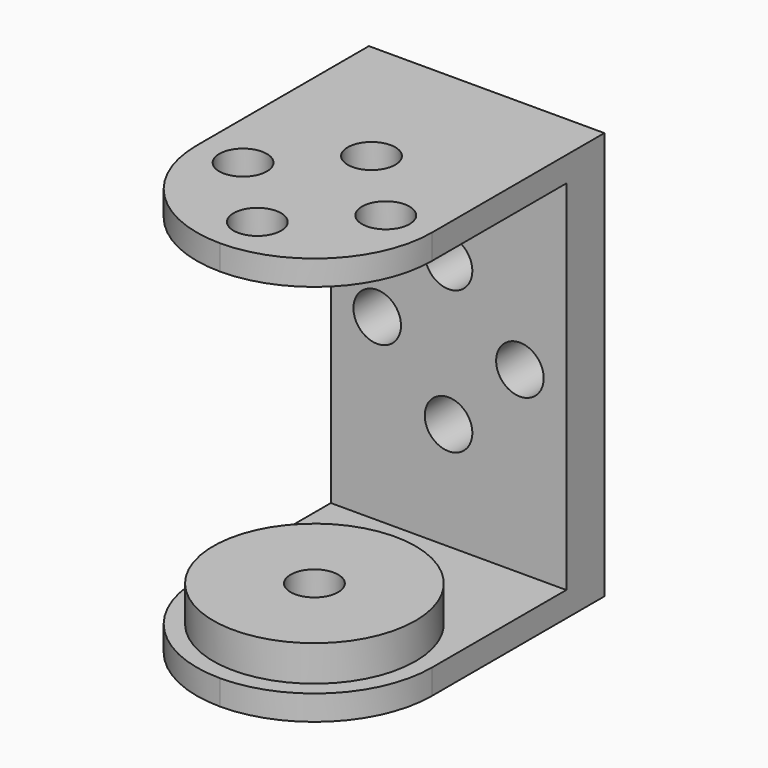
from build123d import *

# Parameters (mm, degrees)
F0_W     = 4
F0_H     = 30.1
F0_H_2   = 2.1
F0_W_2   = 24
F1_DEPTH = 9.9
F3_DEPTH = 34.301
F2_R     = 2
F4_DEPTH = 2.1
F5_R     = 8.5
F5_R_2   = 2
F6_DEPTH = 3
F7_DEPTH = 2.101
F8_R     = 2
F9_DEPTH = 4.001


with BuildPart() as f1:
    # F0 (on Right) → F1 (new body, symmetric)
    with BuildSketch(Plane.YZ):
        Polygon((28, 17.15), (0, 17.15), (0, 15.05), (24, 15.05), (28, 15.05), align=None)
        with Locations((26, 0)):
            Rectangle(F0_W, F0_H)
        with Locations((26, -16.1)):
            Rectangle(F0_W, F0_H_2)
        with Locations((12, -16.1)):
            Rectangle(F0_W_2, F0_H_2)
    extrude(amount=F1_DEPTH, both=True)

    # F2 (on face) → F3 (cut, through all)
    with BuildSketch(Plane.XY.offset(17.15)):
        Polygon((-9.9, 0), (-9.9, 9.9), (-14.9, 9.9), (-14.9, -5), (14.9, -5), (14.9, 9.9), (9.9, 9.9), (9.9, 0), (0, 0), align=None)
        with BuildLine():
            ThreePointArc((0, 0), (-7.000357, 2.899643), (-9.9, 9.9))
            Line((-9.9, 9.9), (-9.9, 0))
            Line((-9.9, 0), (0, 0))
        make_face()
        with BuildLine():
            ThreePointArc((9.9, 9.9), (7.000357, 2.899643), (0, 0))
            Line((0, 0), (9.9, 0))
            Line((9.9, 0), (9.9, 9.9))
        make_face()
    extrude(amount=-F3_DEPTH, mode=Mode.SUBTRACT)

    # F2 (on face) → F4 (cut, through all)
    with BuildSketch(Plane.XY.offset(17.15)):
        with Locations((-6, 9.9)):
            Circle(F2_R)
        with Locations((0, 15.9)):
            Circle(F2_R)
        with Locations((6, 9.9)):
            Circle(F2_R)
        with Locations((0, 3.9)):
            Circle(F2_R)
    extrude(amount=-F4_DEPTH, mode=Mode.SUBTRACT)

    # F5 (on face) → F6 (join)
    with BuildSketch(Plane.XY.offset(-15.05)):
        with Locations((0, 9.9)):
            Circle(F5_R)
        with Locations((0, 9.9)):
            Circle(F5_R_2, mode=Mode.SUBTRACT)
    extrude(amount=F6_DEPTH)

    # F5 (on face) → F7 (cut, through all)
    with BuildSketch(Plane.XY.offset(-15.05)):
        with Locations((0, 9.9)):
            Circle(F5_R_2)
    extrude(amount=-F7_DEPTH, mode=Mode.SUBTRACT)

    # F8 (on face) → F9 (cut, through all)
    with BuildSketch(Plane.XZ.offset(-24)):
        with Locations((0, 6)):
            Circle(F8_R)
        with Locations((6, 0)):
            Circle(F8_R)
        with Locations((0, -6)):
            Circle(F8_R)
        with Locations((-6, 0)):
            Circle(F8_R)
    extrude(amount=-F9_DEPTH, mode=Mode.SUBTRACT)


solid = f1.part
